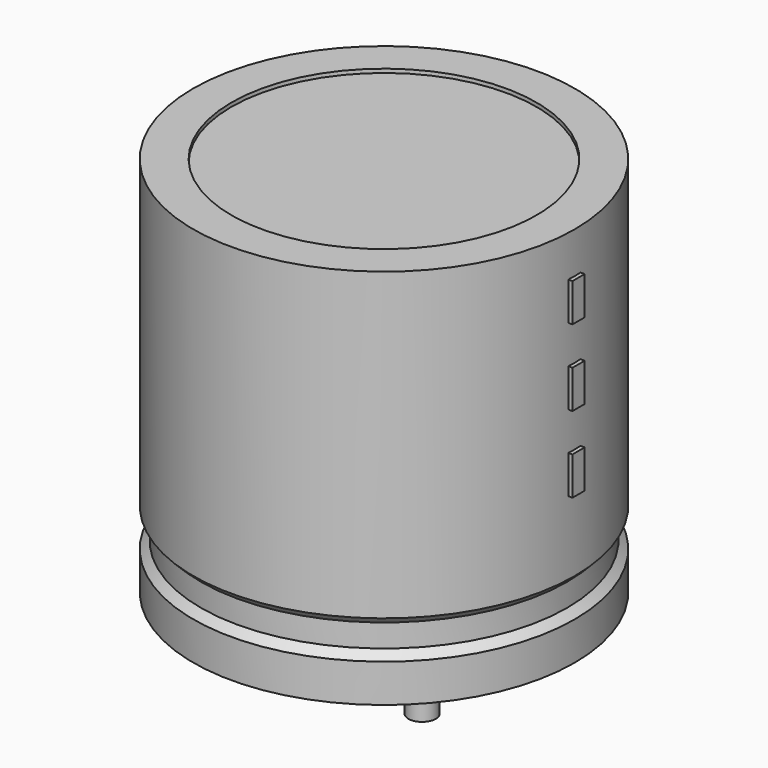
from build123d import *

# Parameters (mm, degrees)
SKETCH002_W  = 5.75
SKETCH002_H  = 12.25
SKETCH003_R  = 0.45
PAD_DEPTH    = 4.25
SKETCH004_W  = 0.5
SKETCH004_H  = 1.25
PAD001_DEPTH = 6.375


with BuildPart() as revolution:
    # Sketch → Revolution (revolve)
    with BuildSketch(Plane.XZ):
        Polygon((-5, 0.1), (-5, 1.35), (-4.75, 1.6), (-4.75, 2.35), (-5, 2.6), (-5, 12.6), (-3.75, 12.6), (-3.75, 0.1), align=None)
    revolve(axis=Axis((1.25, 0, 7.548619), (0, 0, -1)))


with BuildPart() as revolution001:
    # Sketch002 → Revolution001 (revolve)
    with BuildSketch(Plane.XZ):
        with Locations((-1.625, 6.35)):
            Rectangle(SKETCH002_W, SKETCH002_H)
    revolve(axis=Axis((1.25, 0, 4.680116), (0, 0, -1)))


with BuildPart() as pad:
    # Sketch003 → Pad (new body)
    with BuildSketch(Plane.XY.offset(1.25)):
        Circle(SKETCH003_R)
        with Locations((2.5, 0)):
            Circle(SKETCH003_R)
    extrude(amount=-PAD_DEPTH)


with BuildPart() as pad001:
    # Sketch004 → Pad001 (new body)
    with BuildSketch(Plane.YZ.offset(1.25)):
        with Locations((0, 5.625)):
            Rectangle(SKETCH004_W, SKETCH004_H)
        with Locations((0, 8.125)):
            Rectangle(SKETCH004_W, SKETCH004_H)
        with Locations((0, 10.625)):
            Rectangle(SKETCH004_W, SKETCH004_H)
    extrude(amount=PAD001_DEPTH)


solid = Compound([revolution.part, revolution001.part, pad.part, pad001.part])
